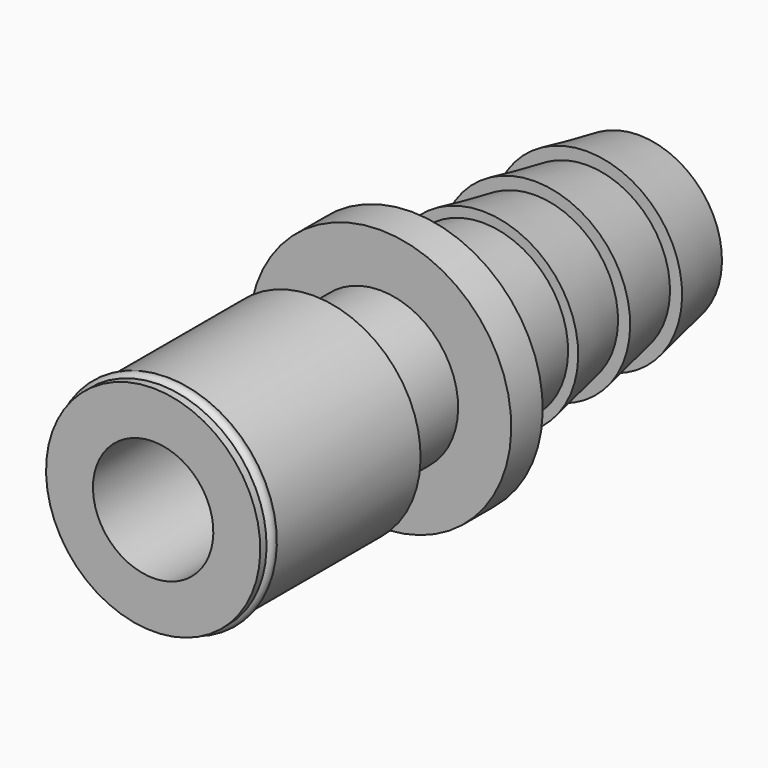
from build123d import *


with BuildPart() as f1:
    # F0 (on Right) → F1 (revolve)
    with BuildSketch(Plane.YZ):
        with BuildLine():
            Line((0.4572, 6.230392), (0, 6.230392))
            Line((0, 6.230392), (0, 3.5))
            Line((0, 3.5), (35.306, 3.5))
            Line((35.306, 3.5), (35.306, 4.836943))
            Line((35.306, 4.836943), (31.528782, 5.541712))
            Line((31.528782, 5.541712), (31.528782, 4.836943))
            Line((31.528782, 4.836943), (27.751564, 5.541712))
            Line((27.751564, 5.541712), (27.751564, 4.836943))
            Line((27.751564, 4.836943), (23.974346, 5.541712))
            Line((23.974346, 5.541712), (23.974346, 4.952836))
            Line((23.974346, 4.952836), (18.796, 5.541712))
            Line((18.796, 5.541712), (18.796, 7.62))
            Line((18.796, 7.62), (16.51, 7.62))
            Line((16.51, 7.62), (16.51, 4.529946))
            Line((16.51, 4.529946), (11.654421, 4.529946))
            Line((11.654421, 4.529946), (11.654421, 6.230392))
            Line((11.654421, 6.230392), (1.145791, 6.230392))
            ThreePointArc((1.145791, 6.230392), (0.801495, 6.446617), (0.4572, 6.230392))
        make_face()
    revolve(axis=Axis((0, 43.56328, 0), (0, 1, 0)))


solid = f1.part
